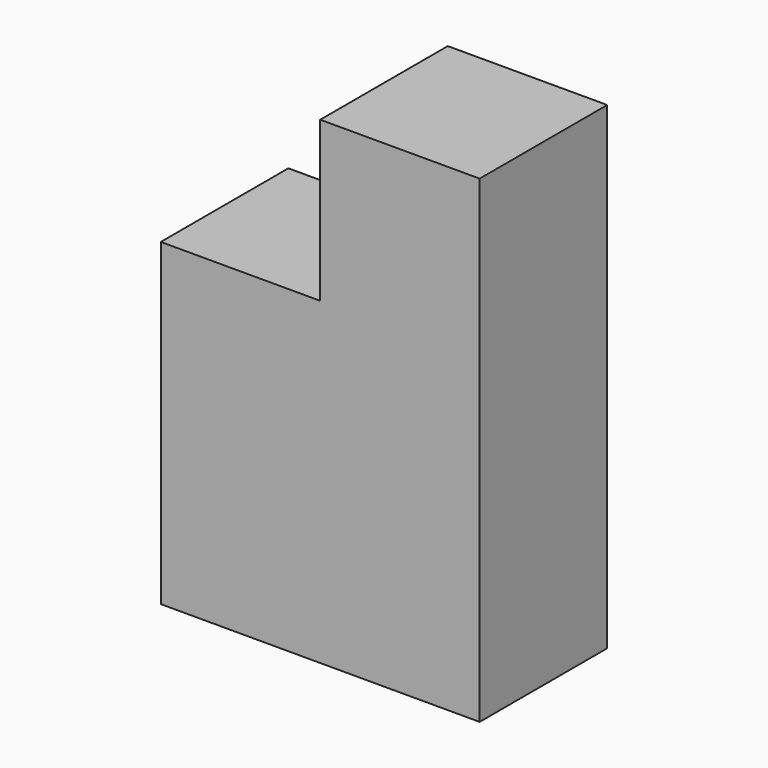
from build123d import *

# Parameters (mm, degrees)
F0_W     = 19.05
F0_H     = 19.05
F1_DEPTH = 19.05
F2_W     = 19.05
F2_H     = 19.05
F3_DEPTH = 19.05


with BuildPart() as f1:
    # F0 (on Front) → F1 (new body)
    with BuildSketch(Plane.XZ):
        Polygon((-28.956, 54.113123), (-48.006, 54.113123), (-48.006, 16.013123), (-48.006, -3.036877), (-28.956, -3.036877), align=None)
        with Locations((-57.531, 6.488123)):
            Rectangle(F0_W, F0_H)
    extrude(amount=F1_DEPTH)

    # F2 (on face) → F3 (join)
    with BuildSketch(Plane.XY.offset(16.013123)):
        with Locations((-57.531, -9.525)):
            Rectangle(F2_W, F2_H)
    extrude(amount=F3_DEPTH)


solid = f1.part
